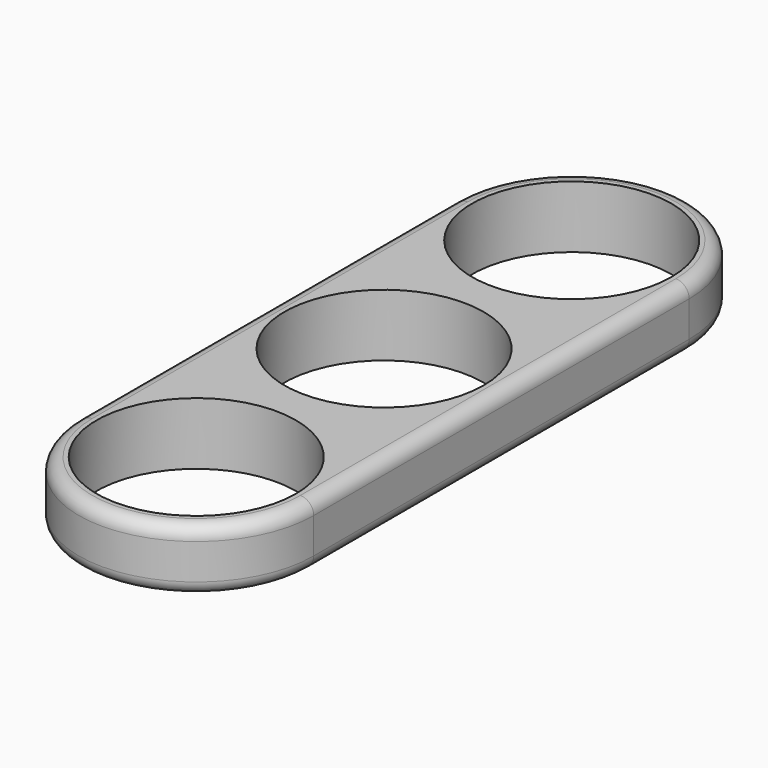
from build123d import *

# Parameters (mm, degrees)
F0_R     = 11.2
F1_DEPTH = 7
F2_R     = 1.5
F3_R     = 1.5


with BuildPart() as f1:
    # F0 (on Top) → F1 (new body)
    with BuildSketch(Plane.XY):
        with BuildLine():
            Line((-13.195308, 26.308456), (-13.195308, -26.457274))
            ThreePointArc((-13.195308, -26.457274), (0.004692, -39.657274), (13.204692, -26.457274))
            Line((13.204692, -26.457274), (13.204692, 26.308456))
            ThreePointArc((13.204692, 26.308456), (0.004692, 39.508456), (-13.195308, 26.308456))
        make_face()
        with Locations((0.004692, -26.457274)):
            Circle(F0_R, mode=Mode.SUBTRACT)
        with Locations((0.004692, 26.308456)):
            Circle(F0_R, mode=Mode.SUBTRACT)
        with Locations((0.004719, -0.073227)):
            Circle(F0_R, mode=Mode.SUBTRACT)
    extrude(amount=F1_DEPTH)

    # F2
    f2_edges = [f1.edges().sort_by_distance(p)[0] for p in [
        (-13.195308, -0.074409, 7),
        (0.004692, 39.508456, 7),
        (13.204692, -0.074409, 7),
        (0.004692, -39.657274, 7),
    ]]
    fillet(f2_edges, radius=F2_R)

    # F3
    f3_edges = [f1.edges().sort_by_distance(p)[0] for p in [
        (13.204692, -0.074409, 0),
        (0.004692, 39.508456, 0),
        (-13.195308, -0.074409, 0),
        (0.004692, -39.657274, 0),
    ]]
    fillet(f3_edges, radius=F3_R)


solid = f1.part
